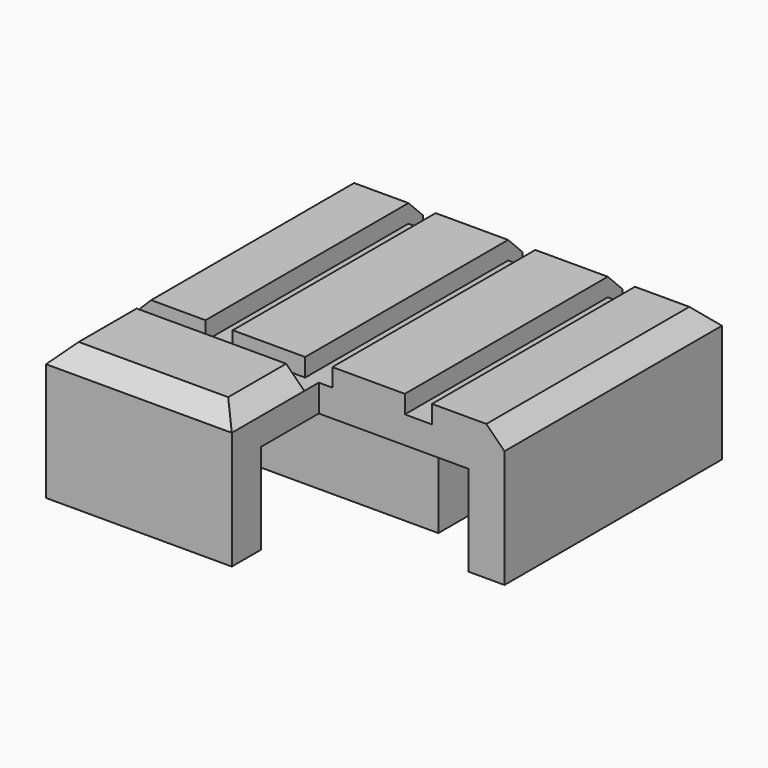
from build123d import *

# Parameters (mm, degrees)
F0_W      = 8
F0_H      = 30
F0_W_2    = 3
F0_W_3    = 20.5
F0_H_2    = 10
F1_DEPTH  = 15
F2_DEPTH  = 2
F3_SIZE   = 2
F4_R      = 0.85
F5_DEPTH  = 15.001
F6_R      = 1
F6_R_2    = 7.5
F7_DEPTH  = 1.5
F8_W      = 3
F8_H      = 13
F9_DEPTH  = 2
F10_W     = 2
F10_H     = 13
F11_DEPTH = 2
F12_ANGLE = 90
F13_R     = 0.85
F14_DEPTH = 1.5
F15_W     = 33
F15_H     = 34
F16_DEPTH = 10
F17_W     = 20
F17_H     = 22
F17_R     = 0.85
F17_R_2   = 7.5
F18_DEPTH = 10
F19_R     = 0.85
F20_DEPTH = 10


with BuildPart() as f1:
    # F0 (on Top) → F1 (new body)
    with BuildSketch(Plane.XY):
        with Locations((-16.5, 0)):
            Rectangle(F0_W, F0_H)
        with Locations((-11, 0)):
            Rectangle(F0_W_2, F0_H)
        with Locations((-5.5, 0)):
            Rectangle(F0_W, F0_H)
        Polygon((1.5, 15), (-1.5, 15), (-1.5, -15), (0, -15), (1.5, -15), align=None)
        with Locations((5.5, 0)):
            Rectangle(F0_W, F0_H)
        with Locations((11, 0)):
            Rectangle(F0_W_2, F0_H)
        Polygon((9.5, -15), (1.5, -15), (0, -15), (0, -17), (20.5, -17), (20.5, -15), (12.5, -15), align=None)
        with Locations((16.5, 0)):
            Rectangle(F0_W, F0_H)
        with Locations((10.25, -22)):
            Rectangle(F0_W_3, F0_H_2)
    extrude(amount=-F1_DEPTH)

    # F0 (on Top) → F2 (cut)
    with BuildSketch(Plane.XY):
        with Locations((-11, 0)):
            Rectangle(F0_W_2, F0_H)
        Polygon((1.5, 15), (-1.5, 15), (-1.5, -15), (0, -15), (1.5, -15), align=None)
        with Locations((11, 0)):
            Rectangle(F0_W_2, F0_H)
        Polygon((9.5, -15), (1.5, -15), (0, -15), (0, -17), (20.5, -17), (20.5, -15), (12.5, -15), align=None)
    extrude(amount=-F2_DEPTH, mode=Mode.SUBTRACT)

    # F3
    f3_edges = [f1.edges().sort_by_distance(p)[0] for p in [
        (-16.5, 15, 0),
        (-20.5, 0, 0),
        (20.5, 0, 0),
        (16.5, 15, 0),
        (5.5, 15, 0),
        (-5.5, 15, 0),
        (10.25, -27, 0),
        (20.5, -22, 0),
        (0, -22, 0),
    ]]
    chamfer(f3_edges, length=F3_SIZE)

    # F4 (on face) → F5 (cut, through all)
    with BuildSketch(Plane.XY):
        with Locations((-7.5, 7.5)):
            Circle(F4_R)
        with Locations((7.5, 7.5)):
            Circle(F4_R)
        with Locations((7.5, -7.5)):
            Circle(F4_R)
        with Locations((-7.5, -7.5)):
            Circle(F4_R)
    extrude(amount=-F5_DEPTH, mode=Mode.SUBTRACT)

    # F8 (on face) → F9 (cut)
    with BuildSketch(Plane(origin=(0, 15, 0), x_dir=(-1, 0, 0), z_dir=(0, 1, 0))):
        with Locations((11, -8.5)):
            Rectangle(F8_W, F8_H)
        Polygon((1.5, -15), (1.5, -2), (0, -2), (-1.5, -2), (-1.5, -15), (0, -15), align=None)
        with Locations((-11, -8.5)):
            Rectangle(F8_W, F8_H)
    extrude(amount=-F9_DEPTH, mode=Mode.SUBTRACT)

    # F10 (on face) → F11 (cut)
    with BuildSketch(Plane.YZ.offset(20.5)):
        with Locations((-16, -8.5)):
            Rectangle(F10_W, F10_H)
    extrude(amount=-F11_DEPTH, mode=Mode.SUBTRACT)

    # F15 (on face) → F16 (cut)
    with BuildSketch(Plane(origin=(0, 0, -15), x_dir=(1, 0, 0), z_dir=(0, 0, -1))):
        with Locations((0, 6)):
            Rectangle(F15_W, F15_H)
    extrude(amount=-F16_DEPTH, mode=Mode.SUBTRACT)



with BuildPart() as f7:
    # F6 (on face) → F7 (new body)
    with BuildSketch(Plane(origin=(0, 0, -15), x_dir=(1, 0, 0), z_dir=(0, 0, -1))):
        with BuildLine():
            ThreePointArc((10, 14.5), (9.5606601718, 15.5606601718), (8.5, 16))
            Line((8.5, 16), (-8.5, 16))
            ThreePointArc((-8.5, 16), (-9.5606601718, 15.5606601718), (-10, 14.5))
            Line((-10, 14.5), (-10, -14.5))
            ThreePointArc((-10, -14.5), (-9.5606601718, -15.5606601718), (-8.5, -16))
            Line((-8.5, -16), (8.5, -16))
            ThreePointArc((8.5, -16), (9.5606601718, -15.5606601718), (10, -14.5))
            Line((10, -14.5), (10, 14.5))
        make_face()
        with Locations((-7.5, -13.5)):
            Circle(F6_R, mode=Mode.SUBTRACT)
        with Locations((0, -13.5)):
            Circle(F6_R, mode=Mode.SUBTRACT)
        with Locations((7.5, -13.5)):
            Circle(F6_R, mode=Mode.SUBTRACT)
        with Locations((-7.5, 13.5)):
            Circle(F6_R, mode=Mode.SUBTRACT)
        Circle(F6_R_2, mode=Mode.SUBTRACT)
        with Locations((0, 13.5)):
            Circle(F6_R, mode=Mode.SUBTRACT)
        with Locations((7.5, 13.5)):
            Circle(F6_R, mode=Mode.SUBTRACT)
    extrude(amount=F7_DEPTH)


with BuildPart() as f7_1:
    # F12: moved
    add(f7.part.rotate(Axis((0, 0, -15), (0, 0, -1)), F12_ANGLE))

    # F13 (on face) → F14 (cut, through all)
    with BuildSketch(Plane(origin=(0, 0, -16.5), x_dir=(1, 0, 0), z_dir=(0, 0, -1))):
        with Locations((-7.5, -7.5)):
            Circle(F13_R)
        with Locations((7.5, -7.5)):
            Circle(F13_R)
        with Locations((-7.5, 7.5)):
            Circle(F13_R)
        with Locations((7.5, 7.5)):
            Circle(F13_R)
    extrude(amount=-F14_DEPTH, mode=Mode.SUBTRACT)


with BuildPart() as f18:
    # F17 (on face) → F18 (new body, through all)
    with BuildSketch(Plane(origin=(0, 0, -5), x_dir=(1, 0, 0), z_dir=(0, 0, -1))):
        Rectangle(F17_W, F17_H)
        with Locations((-7.5, -7.5)):
            Circle(F17_R, mode=Mode.SUBTRACT)
        with Locations((7.5, -7.5)):
            Circle(F17_R, mode=Mode.SUBTRACT)
        with Locations((-7.5, 7.5)):
            Circle(F17_R, mode=Mode.SUBTRACT)
        Circle(F17_R_2, mode=Mode.SUBTRACT)
        with Locations((7.5, 7.5)):
            Circle(F17_R, mode=Mode.SUBTRACT)
    extrude(amount=F18_DEPTH)


with BuildPart() as f1_1:
    add(f1.part)

    add(f18.part)  # F20 merges F18
    # F19 (on face) → F20 (join)
    with BuildSketch(Plane.XY):
        with Locations((7.5, 7.5)):
            Circle(F19_R)
        with Locations((-7.5, 7.5)):
            Circle(F19_R)
        with Locations((-7.5, -7.5)):
            Circle(F19_R)
        with Locations((7.5, -7.5)):
            Circle(F19_R)
    extrude(amount=-F20_DEPTH)


with BuildPart() as f22_1:
    # F22: instance of F1
    add(f1_1.part.mirror(Plane.YZ.offset(-30)))


solid = f22_1.part
